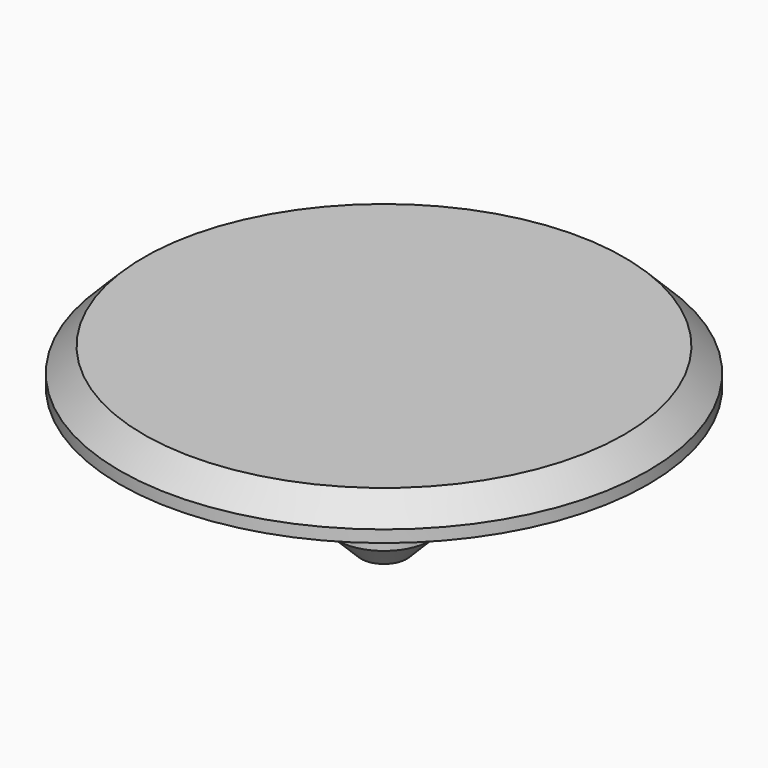
from build123d import *

# Parameters (mm, degrees)
F0_R     = 1.95
F1_DEPTH = 5
F2_R     = 5.5
F2_R_2   = 1.95
F3_DEPTH = 1
F4_R     = 11
F5_DEPTH = 1.5
F6_SIZE  = 1


with BuildPart() as f1:
    # F0 (on Top) → F1 (new body)
    with BuildSketch(Plane.XY):
        Circle(F0_R)
    extrude(amount=F1_DEPTH)

    # F2 (on face) → F3 (join)
    with BuildSketch(Plane.XY.offset(5)):
        Circle(F2_R)
        Circle(F2_R_2, mode=Mode.SUBTRACT)
        Circle(F2_R_2)
    extrude(amount=F3_DEPTH)

    # F4 (on face) → F5 (join)
    with BuildSketch(Plane.XY.offset(6)):
        Circle(F4_R)
    extrude(amount=F5_DEPTH)

    # F6
    f6_edges = [f1.edges().sort_by_distance(p)[0] for p in [
        (-11, 0, 7.5),
        (-1.95, 0, 0),
    ]]
    chamfer(f6_edges, length=F6_SIZE)


solid = f1.part
